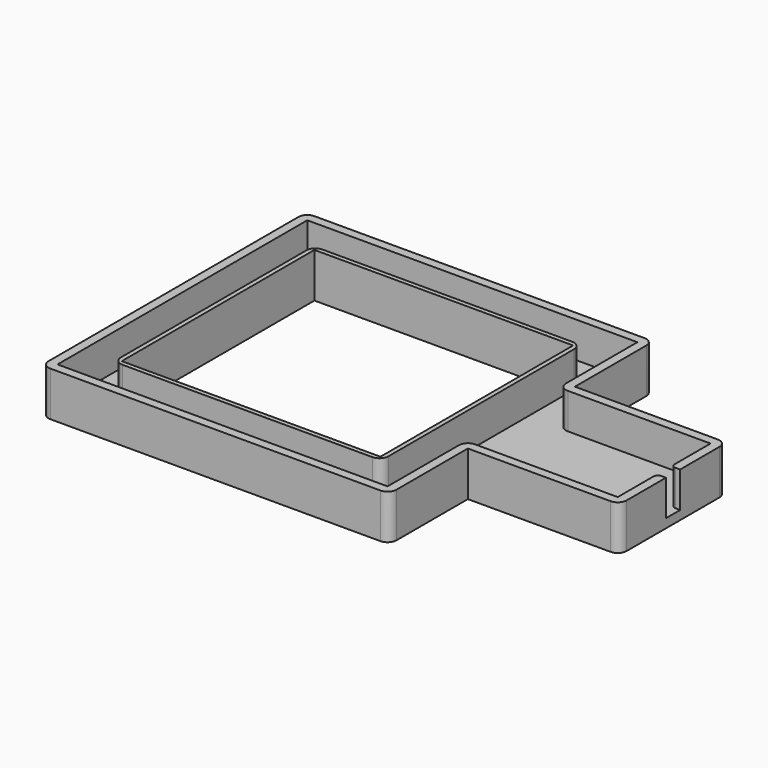
from build123d import *

# Parameters (mm, degrees)
PAD_DEPTH       = 5
POCKET_DEPTH    = 4
SKETCH001_W     = 30
SKETCH001_H     = 28
PAD001_DEPTH    = 5
SKETCH003_W     = 29
SKETCH003_H     = 27
POCKET001_DEPTH = 5
SKETCH004_W     = 2
SKETCH004_H     = 2
POCKET002_DEPTH = 4
FILLET_R        = 1
FILLET001_R     = 1
FILLET002_R     = 1
FILLET003_R     = 0.5


with BuildPart() as part:
    # Sketch → Pad (new body)
    with BuildSketch(Plane.XY):
        Polygon((36.5, 7.5), (19.5, 7.5), (19.5, 18.5), (-19.5, 18.5), (-19.5, -18.5), (19.5, -18.5), (19.5, -7.5), (36.5, -7.5), align=None)
    extrude(amount=PAD_DEPTH)

    # Sketch002 → Pocket (cut)
    with BuildSketch(Plane.XY.offset(1)):
        Polygon((35.5, 6.5), (18.5, 6.5), (18.5, 17.5), (-18.5, 17.5), (-18.5, -17.5), (18.5, -17.5), (18.5, -6.5), (35.5, -6.5), align=None)
    extrude(amount=POCKET_DEPTH, mode=Mode.SUBTRACT)

    # Sketch001 → Pad001 (join)
    with BuildSketch(Plane.XY):
        Rectangle(SKETCH001_W, SKETCH001_H)
    extrude(amount=PAD001_DEPTH)

    # Sketch003 → Pocket001 (cut)
    with BuildSketch(Plane.XY):
        Rectangle(SKETCH003_W, SKETCH003_H)
    extrude(amount=POCKET001_DEPTH, mode=Mode.SUBTRACT)

    # Sketch004 → Pocket002 (cut)
    with BuildSketch(Plane.XY.offset(1)):
        with Locations((35.5, 0)):
            Rectangle(SKETCH004_W, SKETCH004_H)
    extrude(amount=POCKET002_DEPTH, mode=Mode.SUBTRACT)

    # Fillet
    fillet_edges = [part.edges().sort_by_distance(p)[0] for p in [
        (-15, -14, 3),
        (15, -14, 3),
        (15, 14, 3),
        (-15, 14, 3),
    ]]
    fillet(fillet_edges, radius=FILLET_R)

    # Fillet001
    fillet001_edges = [part.edges().sort_by_distance(p)[0] for p in [
        (18.5, 6.5, 3),
        (18.5, -6.5, 3),
    ]]
    fillet(fillet001_edges, radius=FILLET001_R)

    # Fillet002
    fillet002_edges = [part.edges().sort_by_distance(p)[0] for p in [
        (-19.5, 18.5, 2.5),
        (-19.5, -18.5, 2.5),
        (19.5, 18.5, 2.5),
        (36.5, 7.5, 2.5),
        (36.5, -7.5, 2.5),
        (19.5, -18.5, 2.5),
    ]]
    fillet(fillet002_edges, radius=FILLET002_R)

    # Fillet003
    fillet003_edges = [part.edges().sort_by_distance(p)[0] for p in [
        (35.5, -1, 3),
        (35.5, 1, 3),
    ]]
    fillet(fillet003_edges, radius=FILLET003_R)


solid = part.part
